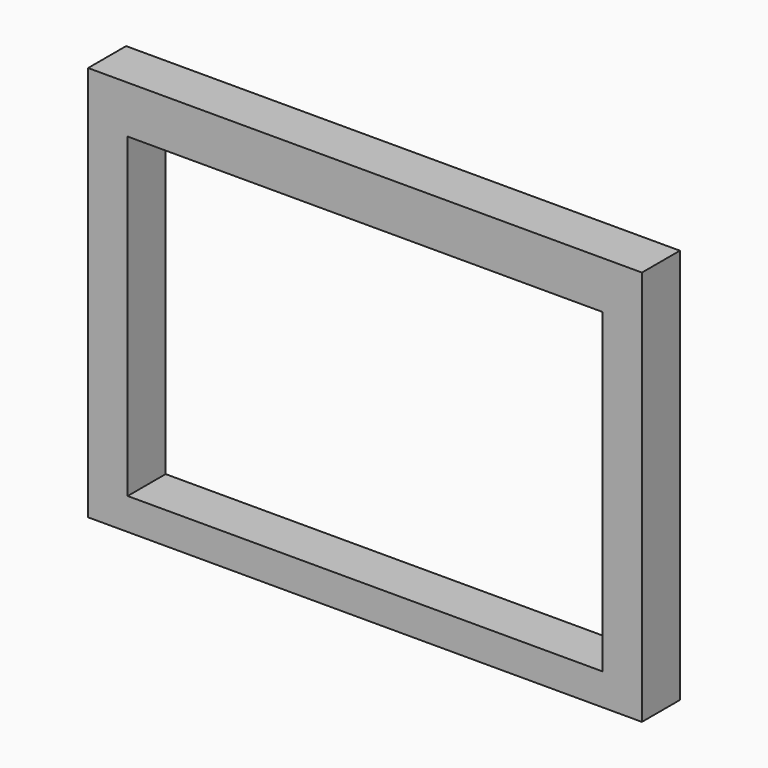
from build123d import *

# Parameters (mm, degrees)
BOX025_W     = 60
BOX025_H     = 12
BOX025_DEPTH = 40
BOX024_W     = 70
BOX024_H     = 6
BOX024_DEPTH = 50


with BuildPart() as cubo025:
    # Box025 → Box025 (new body)
    with BuildSketch(Plane(origin=(-14, -3, -127), x_dir=(1, 0, 0), z_dir=(0, 0, 1))):
        with Locations((30, 6)):
            Rectangle(BOX025_W, BOX025_H)
    extrude(amount=BOX025_DEPTH)


with BuildPart() as cut017:
    # Box024 → Box024 (new body)
    with BuildSketch(Plane(origin=(-19, 0, -131), x_dir=(1, 0, 0), z_dir=(0, 0, 1))):
        with Locations((35, 3)):
            Rectangle(BOX024_W, BOX024_H)
    extrude(amount=BOX024_DEPTH)

    # Cut017: cut Cubo025
    add(cubo025.part, mode=Mode.SUBTRACT)


with BuildPart() as cut017_1:
    # Cut017 placement: moved
    add(cut017.part.moved(Location((-6, 0, 3))))


solid = cut017_1.part
